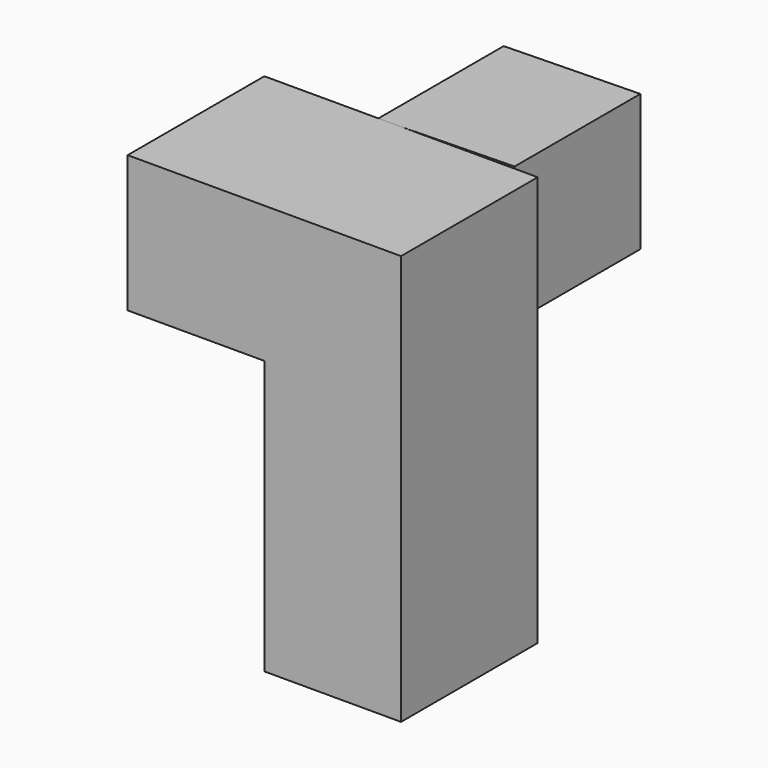
from build123d import *

# Parameters (mm, degrees)
F1_DEPTH = 23
F3_DEPTH = 25


with BuildPart() as f1:
    # F0 (on Front) → F1 (new body)
    with BuildSketch(Plane.XZ):
        Polygon((-7.018629, 9.926063), (-7.018629, 29.926063), (-27.015657, 29.581288), (-27.015657, 9.926063), align=None)
        Polygon((-7.018629, 9.926063), (-7.018629, 29.926063), (-27.015657, 29.581288), (-27.015657, 9.926063), align=None)
    extrude(amount=-F1_DEPTH)

    # F2 (on Front) → F3 (join)
    with BuildSketch(Plane.XZ):
        Polygon((-3.635064, -30.358194), (-3.635064, 29.641806), (-43.635064, 29.641806), (-43.635064, 9.641806), (-23.635064, 9.641806), (-23.635064, -30.358194), align=None)
    extrude(amount=F3_DEPTH)


solid = f1.part
